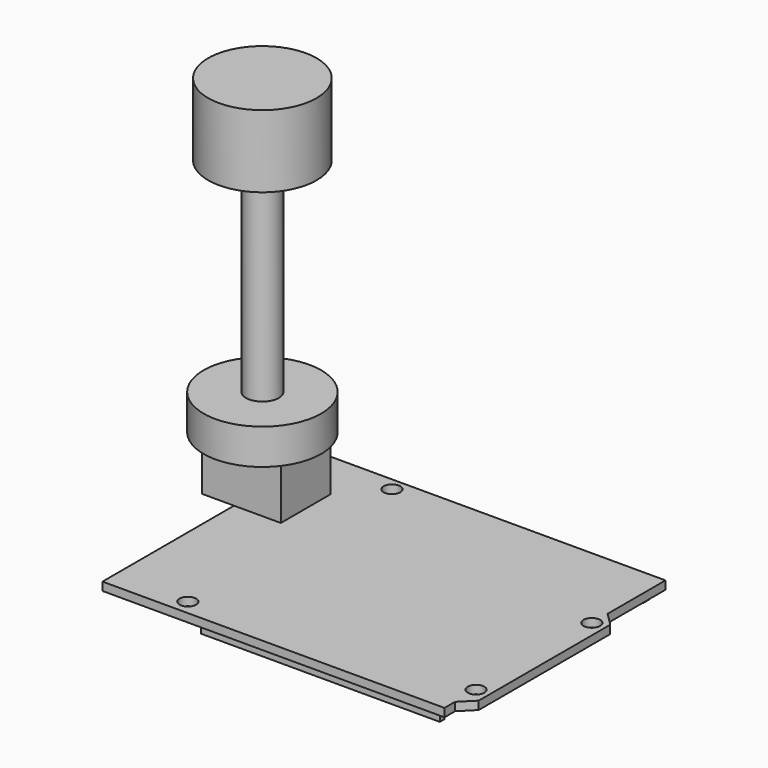
from build123d import *

# Parameters (mm, degrees)
F0_R      = 1.6
F1_DEPTH  = 1.6
F2_W      = 6.2
F2_H      = 12
F2_W_2    = 9.04
F3_DEPTH  = 10.9
F4_W      = 46.085651
F4_H      = 1.150087
F4_W_2    = 45.428462
F4_H_2    = 1.478683
F5_DEPTH  = 1.5
F6_R      = 11.350572
F6_R_2    = 3.232045
F7_DEPTH  = 6.858
F8_R      = 3.175
F9_DEPTH  = 39.37
F10_R     = 10.465691
F10_R_2   = 3.175
F11_DEPTH = 13.97


with BuildPart() as f1:
    # F0 (on Top) → F1 (new body)
    with BuildSketch(Plane.XY):
        Polygon((0, 53.34), (0, 0), (66.04, 0), (66.04, 2.54), (68.58, 5.08), (68.58, 36.83), (66.04, 39.37), (66.04, 53.34), align=None)
        with Locations((14.14, 2.92)):
            Circle(F0_R, mode=Mode.SUBTRACT)
        with Locations((66.04, 7.62)):
            Circle(F0_R, mode=Mode.SUBTRACT)
        with Locations((15.24, 50.8)):
            Circle(F0_R, mode=Mode.SUBTRACT)
        with Locations((66.04, 35.56)):
            Circle(F0_R, mode=Mode.SUBTRACT)
    extrude(amount=F1_DEPTH)

    # F2 (on face) → F3 (join)
    with BuildSketch(Plane.XY.offset(1.6)):
        with Locations((-3.1, 37.74)):
            Rectangle(F2_W, F2_H)
        with Locations((4.52, 37.74)):
            Rectangle(F2_W_2, F2_H)
    extrude(amount=F3_DEPTH)

    # F4 (on face) → F5 (join)
    with BuildSketch(Plane(origin=(0, 0, 0), x_dir=(1, 0, 0), z_dir=(0, 0, -1))):
        with Locations((41.58383, -1.216432)):
            Rectangle(F4_W, F4_H)
        with Locations((41.611146, -50.914244)):
            Rectangle(F4_W_2, F4_H_2)
    extrude(amount=F5_DEPTH)

    # F6 (on face) → F7 (join)
    with BuildSketch(Plane.XY.offset(12.5)):
        with Locations((1.441258, 36.791712)):
            Circle(F6_R)
        with Locations((1.441258, 36.791712)):
            Circle(F6_R_2, mode=Mode.SUBTRACT)
        with Locations((1.441258, 36.791712)):
            Circle(F6_R)
        with Locations((1.441258, 36.791712)):
            Circle(F6_R_2, mode=Mode.SUBTRACT)
        with Locations((1.441258, 36.791712)):
            Circle(F6_R_2)
    extrude(amount=F7_DEPTH)

    # F8 (on face) → F9 (join)
    with BuildSketch(Plane.XY.offset(19.358)):
        with Locations((1.441258, 36.791712)):
            Circle(F8_R)
    extrude(amount=F9_DEPTH)

    # F10 (on face) → F11 (join)
    with BuildSketch(Plane.XY.offset(58.728)):
        with Locations((1.441258, 36.791712)):
            Circle(F10_R)
        with Locations((1.441258, 36.791712)):
            Circle(F10_R_2)
    extrude(amount=F11_DEPTH)


solid = f1.part
